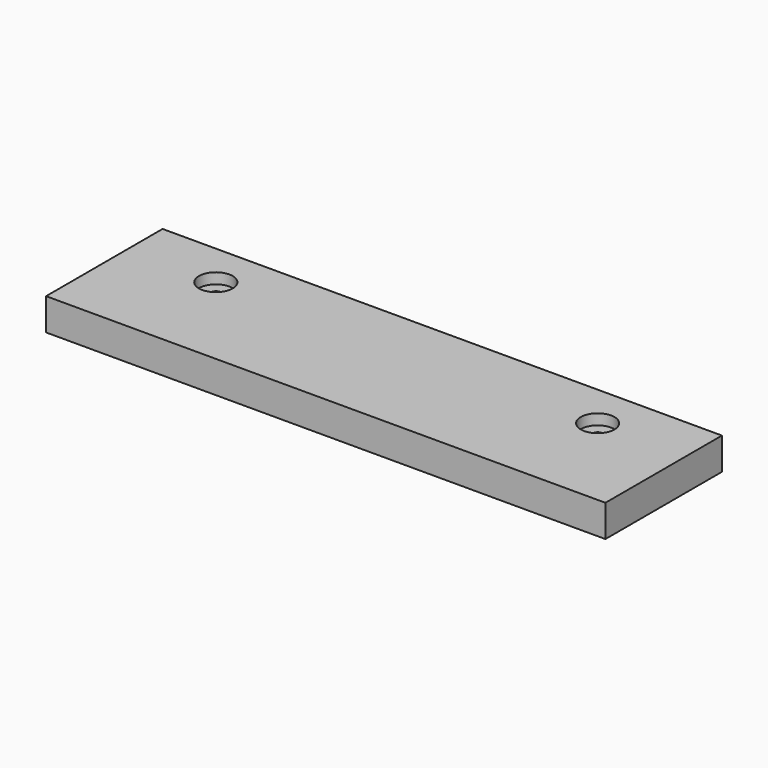
from build123d import *

# Parameters (mm, degrees)
SKETCH002_W  = 315
SKETCH002_H  = 82
SKETCH002_R  = 3
PAD002_DEPTH = 18
SKETCH003_R  = 9.5
POCKET_DEPTH = 6


with BuildPart() as part:
    # Sketch002 → Pad002 (new body)
    with BuildSketch(Plane.XY):
        with Locations((0, 41)):
            Rectangle(SKETCH002_W, SKETCH002_H)
        with Locations((-107.5, 57)):
            Circle(SKETCH002_R, mode=Mode.SUBTRACT)
        with Locations((107.5, 57)):
            Circle(SKETCH002_R, mode=Mode.SUBTRACT)
    extrude(amount=PAD002_DEPTH)

    # Sketch003 (on Face8 of Pad002) → Pocket (cut)
    with BuildSketch(Plane.XY.offset(18)):
        with Locations((-107.5, 57)):
            Circle(SKETCH003_R)
    pocket = extrude(amount=-POCKET_DEPTH, mode=Mode.SUBTRACT)

    # Mirrored: Pocket across Sketch003 V_Axis
    add(pocket.mirror(Plane(origin=(0, 0, 18), x_dir=(0, 0, 1), z_dir=(1, 0, 0))), mode=Mode.SUBTRACT)


solid = part.part
